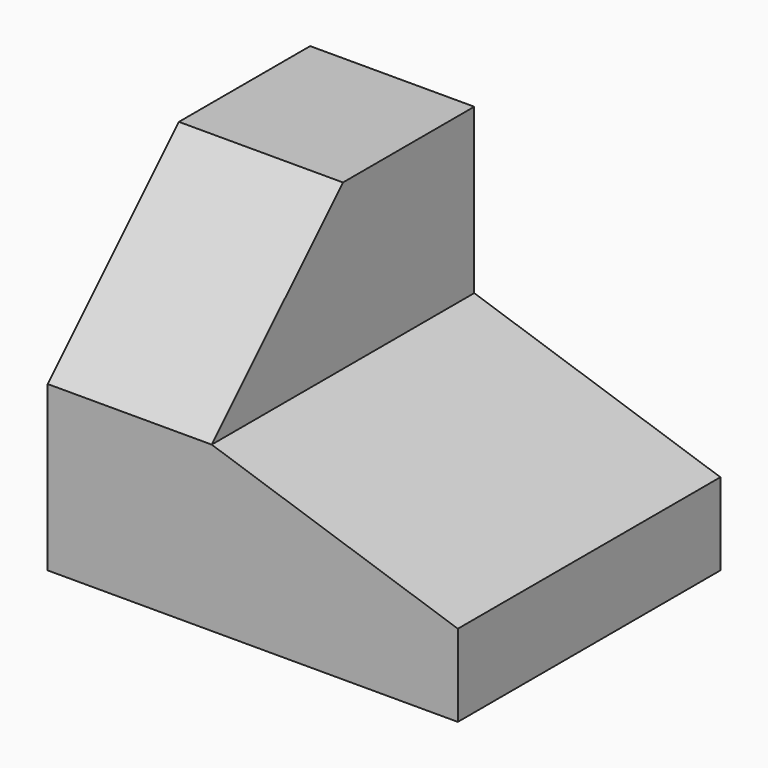
from build123d import *

# Parameters (mm, degrees)
F1_DEPTH = 40
F0_W     = 20
F0_H     = 20
F2_DEPTH = 40
F4_DEPTH = 20


with BuildPart() as f1:
    # F0 (on Front) → F1 (new body)
    with BuildSketch(Plane.XZ):
        Polygon((0, 20), (0, 0), (50, 0), (50, 10), (20, 20), align=None)
    extrude(amount=F1_DEPTH)

    # F0 (on Front) → F2 (join)
    with BuildSketch(Plane.XZ):
        with Locations((10, 30)):
            Rectangle(F0_W, F0_H)
    extrude(amount=F2_DEPTH)

    # F3 (on face) → F4 (cut)
    with BuildSketch(Plane.YZ.offset(20)):
        Polygon((-40, 20), (-20, 40), (-40, 40), align=None)
    extrude(amount=-F4_DEPTH, mode=Mode.SUBTRACT)


solid = f1.part
